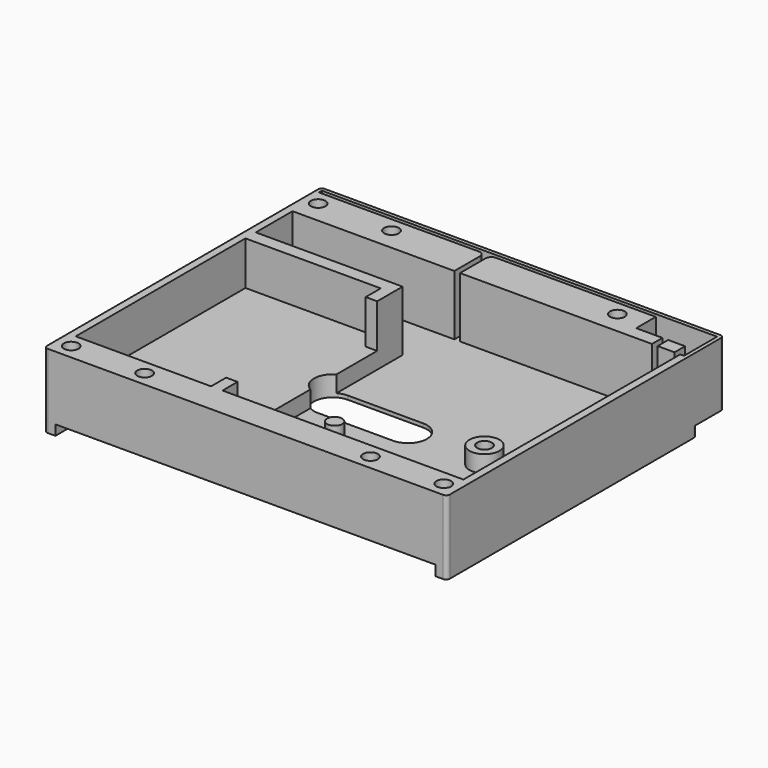
from build123d import *

# Parameters (mm, degrees)
PAD011_DEPTH    = 1
PAD012_DEPTH    = 17
POCKET008_DEPTH = 16
POCKET009_DEPTH = 11.6
SKETCH023_R     = 4
SKETCH023_R_2   = 1.95
SKETCH023_R_3   = 2
PAD013_DEPTH    = 5.5
SKETCH024_R     = 1.95
POCKET010_DEPTH = 8
PAD017_DEPTH    = 2.7
POCKET013_DEPTH = 17


with BuildPart() as part:
    # Sketch019 → Pad011 (new body)
    with BuildSketch(Plane.XY):
        with BuildLine():
            Line((-53.5, 45), (-53.5, -45))
            ThreePointArc((-53.5, -45), (-53.207107, -45.707107), (-52.5, -46))
            Line((-52.5, -46), (52.5, -46))
            ThreePointArc((52.5, -46), (53.207107, -45.707107), (53.5, -45))
            Line((53.5, -45), (53.5, 45))
            ThreePointArc((53.5, 45), (53.207107, 45.707107), (52.5, 46))
            Line((52.5, 46), (-52.5, 46))
            ThreePointArc((-52.5, 46), (-53.207107, 45.707107), (-53.5, 45))
        make_face()
    extrude(amount=PAD011_DEPTH)

    # Sketch020 → Pad012 (join)
    with BuildSketch(Plane.XY):
        with BuildLine():
            Line((-53.5, 45), (-53.5, -45))
            ThreePointArc((-53.5, -45), (-53.207107, -45.707107), (-52.5, -46))
            Line((-52.5, -46), (52.5, -46))
            ThreePointArc((52.5, -46), (53.207107, -45.707107), (53.5, -45))
            Line((53.5, -45), (53.5, 45))
            ThreePointArc((53.5, 45), (53.207107, 45.707107), (52.5, 46))
            Line((52.5, 46), (-52.5, 46))
            ThreePointArc((-52.5, 46), (-53.207107, 45.707107), (-53.5, 45))
        make_face()
        Polygon((-51.5, 34), (-51.5, 21.8), (-12.5, 21.8), (-12.5, -38), (51.5, -38), (51.5, 34), align=None, mode=Mode.SUBTRACT)
    extrude(amount=PAD012_DEPTH)

    # Sketch021 (on Face14 of Pad012) → Pocket008 (cut)
    with BuildSketch(Plane.XY.offset(17)):
        with BuildLine():
            Line((-52.5, 45), (-52.5, 44))
            Line((-52.5, 44), (-10, 44))
            ThreePointArc((-8.5, 42.5), (-8.93934, 43.56066), (-10, 44))
            Line((-8.5, 42.5), (-8.5, 34))
            Line((-8.5, 34), (-7, 34))
            Line((-7, 34), (-7, 42.5))
            ThreePointArc((-5.5, 44), (-6.56066, 43.56066), (-7, 42.5))
            Line((-5.5, 44), (37, 44))
            Line((37, 44), (37, 37.5))
            Line((37, 37.5), (44, 37.5))
            Line((44, 37.5), (44, 34))
            Line((45.5, 34), (44, 34))
            Line((45.5, 37.5), (45.5, 34))
            Line((45.5, 37.5), (50, 37.5))
            Line((50, 37.5), (50, 34))
            Line((50, 34), (52.5, 34))
            Line((52.5, 45), (52.5, 34))
            Line((52.5, 45), (-52.5, 45))
        make_face()
    extrude(amount=-POCKET008_DEPTH, mode=Mode.SUBTRACT)

    # Sketch022 (on Face14 of Pocket008) → Pocket009 (cut)
    with BuildSketch(Plane.XY.offset(17)):
        Polygon((-15.544, 18.358), (-51.5, 18.358), (-51.5, -38), (-15.544, -38), (-15.544, -33), (-12.5, -33), (-12.5, 13.358), (-15.544, 13.358), align=None)
    extrude(amount=-POCKET009_DEPTH, mode=Mode.SUBTRACT)

    # Sketch023 → Pad013 (join)
    with BuildSketch(Plane.XY):
        with Locations((31.5, -6)):
            Circle(SKETCH023_R)
        with Locations((31.5, -6)):
            Circle(SKETCH023_R_2, mode=Mode.SUBTRACT)
        with Locations((31.5, -28)):
            Circle(SKETCH023_R)
        with Locations((31.5, -28)):
            Circle(SKETCH023_R_2, mode=Mode.SUBTRACT)
        with Locations((0.5, -17)):
            Circle(SKETCH023_R_3)
    extrude(amount=PAD013_DEPTH)

    # Sketch024 (on Face14 of Pad013) → Pocket010 (cut)
    with BuildSketch(Plane.XY.offset(17)):
        with Locations((-49.5, -42)):
            Circle(SKETCH024_R)
        with Locations((-30, -42)):
            Circle(SKETCH024_R)
        with Locations((30, -42)):
            Circle(SKETCH024_R)
        with Locations((-49.5, 40)):
            Circle(SKETCH024_R)
        with Locations((-30, 40)):
            Circle(SKETCH024_R)
        with Locations((30, 40)):
            Circle(SKETCH024_R)
        with Locations((49.5, -42)):
            Circle(SKETCH024_R)
    extrude(amount=-POCKET010_DEPTH, mode=Mode.SUBTRACT)

    # Sketch025 (on Face4 of Pocket010) → Pad017 (join)
    with BuildSketch(Plane(origin=(0, 0, 0), x_dir=(1, 0, 0), z_dir=(0, 0, -1))):
        with BuildLine():
            Line((-50.500005, -36), (50.499995, -36))
            Line((50.499995, -36), (50.499995, 46))
            Line((52.5, 46), (50.499995, 46))
            ThreePointArc((53.5, 45), (53.207107, 45.707107), (52.5, 46))
            Line((53.5, -36), (53.5, 45))
            ThreePointArc((52.5, -37), (53.207107, -36.707107), (53.5, -36))
            Line((-52.5, -37), (52.5, -37))
            ThreePointArc((-53.5, -36), (-53.207107, -36.707107), (-52.5, -37))
            Line((-53.5, 45), (-53.5, -36))
            ThreePointArc((-52.500009, 46), (-53.20711, 45.707104), (-53.5, 45))
            Line((-52.500009, 46), (-50.500005, 46))
            Line((-50.500005, 46), (-50.500005, -36))
        make_face()
    extrude(amount=PAD017_DEPTH)

    # Sketch026 → Pocket013 (cut)
    with BuildSketch(Plane.XY):
        with BuildLine():
            ThreePointArc((-10, 0.5), (-15, -4.5), (-10, -9.5))
            Line((-10, -9.5), (10, -9.5))
            ThreePointArc((10, -9.5), (15, -4.5), (10, 0.5))
            Line((-10, 0.5), (10, 0.5))
        make_face()
    extrude(amount=POCKET013_DEPTH, mode=Mode.SUBTRACT)


solid = part.part
